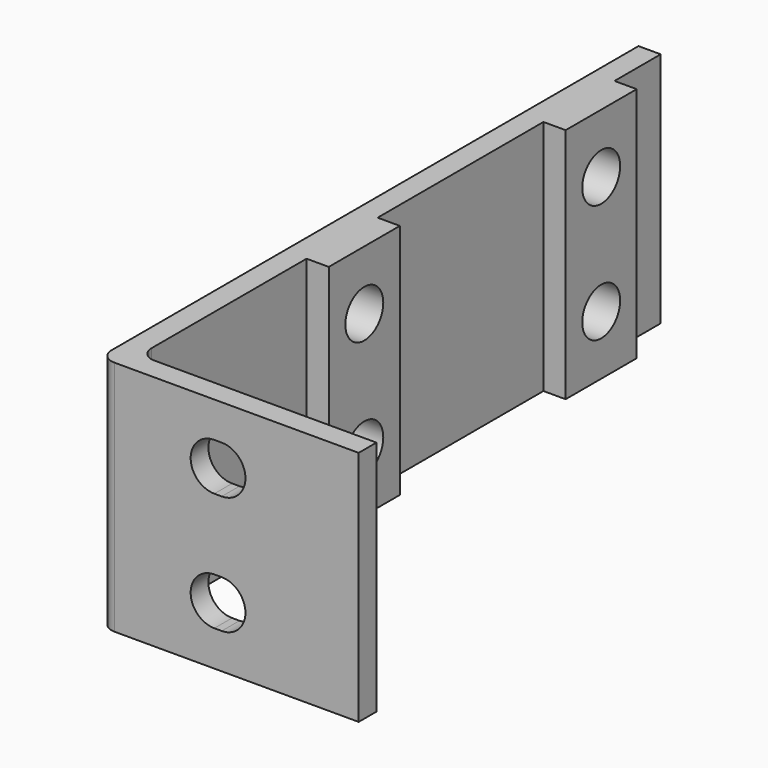
from build123d import *

# Parameters (mm, degrees)
F1_DEPTH = 16
F2_R     = 1
F3_R     = 1
F5_DEPTH = 1.5
F6_W     = 6
F6_H     = 16
F7_DEPTH = 1.5
F8_R     = 1.6
F9_DEPTH = 3


with BuildPart() as f1:
    # F0 (on Top) → F1 (new body)
    with BuildSketch(Plane.XY):
        Polygon((0, 1.5), (0, 45.5), (-1.5, 45.5), (-1.5, 0), (16, 0), (16, 1.5), align=None)
    extrude(amount=F1_DEPTH)

    # F2
    f2_edges = [f1.edges().sort_by_distance(p)[0] for p in [
        (-1.5, 0, 8),
    ]]
    fillet(f2_edges, radius=F2_R)

    # F3
    f3_edges = [f1.edges().sort_by_distance(p)[0] for p in [
        (0, 1.5, 8),
    ]]
    fillet(f3_edges, radius=F3_R)

    # F4 (on face) → F5 (cut)
    with BuildSketch(Plane(origin=(0, 1.5, 0), x_dir=(-1, 0, 0), z_dir=(0, 1, 0))):
        with BuildLine():
            ThreePointArc((-6.75, 5.6), (-8.35, 4), (-6.75, 2.4))
            Line((-6.75, 2.4), (-6.25, 2.4))
            ThreePointArc((-6.25, 2.4), (-4.65, 4), (-6.25, 5.6))
            Line((-6.25, 5.6), (-6.75, 5.6))
        make_face()
        with BuildLine():
            ThreePointArc((-6.75, 13.6), (-8.35, 12), (-6.75, 10.4))
            Line((-6.75, 10.4), (-6.25, 10.4))
            ThreePointArc((-6.25, 10.4), (-4.65, 12), (-6.25, 13.6))
            Line((-6.25, 13.6), (-6.75, 13.6))
        make_face()
    extrude(amount=-F5_DEPTH, mode=Mode.SUBTRACT)

    # F6 (on face) → F7 (join)
    with BuildSketch(Plane.YZ):
        with Locations((38.6, 8)):
            Rectangle(F6_W, F6_H)
        with Locations((18.6, 8)):
            Rectangle(F6_W, F6_H)
    extrude(amount=F7_DEPTH)

    # F8 (on face) → F9 (cut)
    with BuildSketch(Plane.YZ.offset(1.5)):
        with Locations((38.6, 12)):
            Circle(F8_R)
        with Locations((38.6, 4)):
            Circle(F8_R)
        with Locations((18.6, 12)):
            Circle(F8_R)
        with Locations((18.6, 4)):
            Circle(F8_R)
    extrude(amount=-F9_DEPTH, mode=Mode.SUBTRACT)


solid = f1.part
